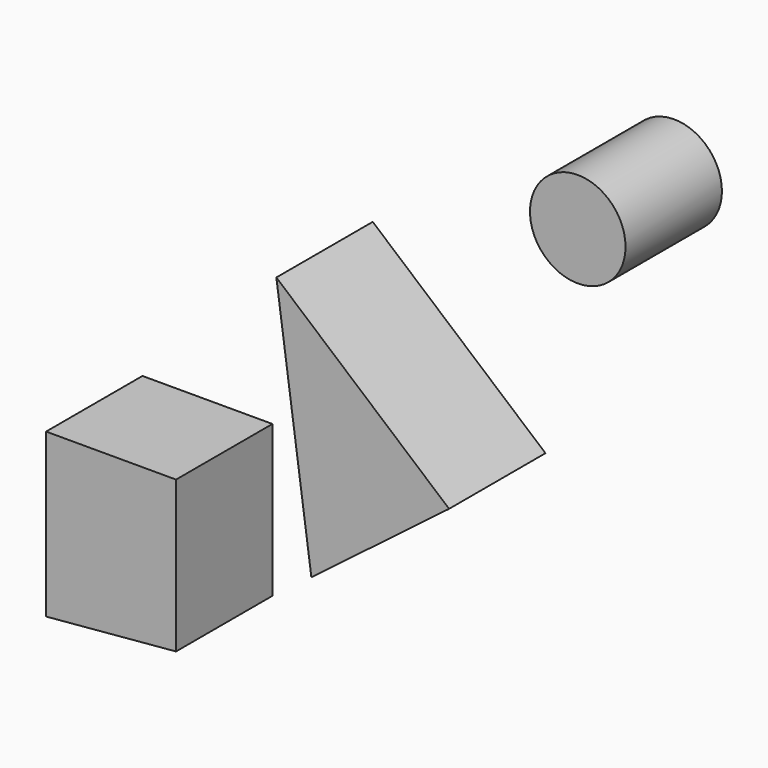
from build123d import *

# Parameters (mm, degrees)
F0_R     = 10.072743
F1_DEPTH = 25.4


with BuildPart() as f1:
    # F0 (on Front) → F1 (new body)
    with BuildSketch(Plane.XZ):
        with Locations((45.295006, 60.727093)):
            Circle(F0_R)
        Polygon((-39.399829, -13.288022), (-66.797405, -13.288022), (-66.797405, -47.62169), (-39.399829, -45.19406), align=None)
        Polygon((18.16641, 0), (-18.248085, 31.102986), (-10.868783, -22.139814), align=None)
    extrude(amount=F1_DEPTH)


solid = f1.part
